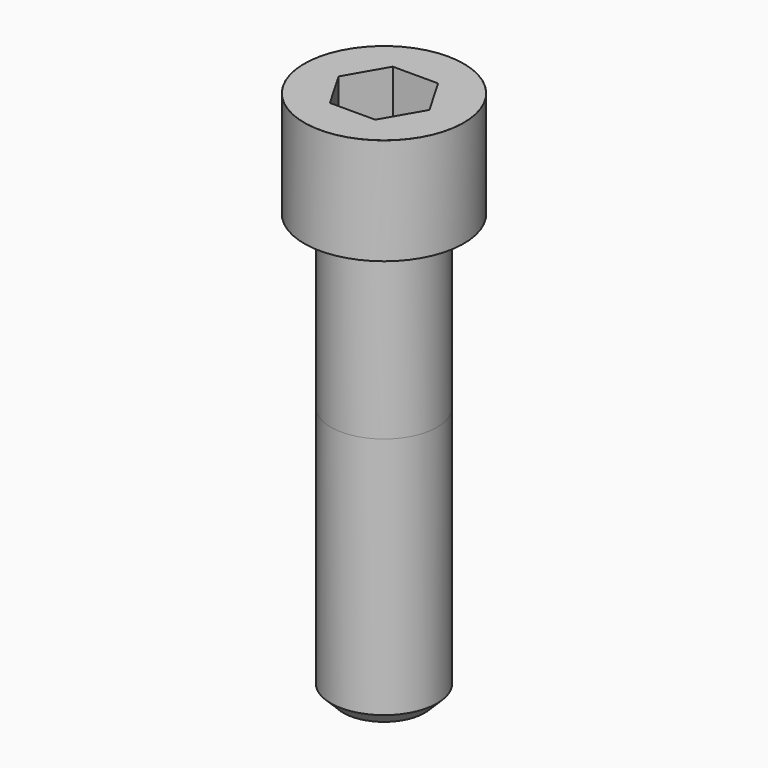
from build123d import *

# Parameters (mm, degrees)
POCKET_DEPTH = 22.15


with BuildPart() as part:
    # Sketch → Revolve (revolve)
    with BuildSketch(Plane.YZ):
        with BuildLine():
            Line((14.999, 0), (22.5, 0))
            Line((22.5, 0), (22.5, 29.97229))
            ThreePointArc((22.5, 29.97229), (22.491884, 29.991884), (22.47229, 30))
            Line((22.47229, 30), (0, 30))
            Line((0, -120), (0, 30))
            Line((11.5, -120), (0, -120))
            Line((15, -116.5), (11.5, -120))
            Line((15, -48), (15, -116.5))
            Line((14.999, 0), (15, -48))
        make_face()
    revolve(axis=Axis((0, 0, 0), (0, 0, 1)))

    # Sketch001 → Pocket (cut)
    with BuildSketch(Plane.XY.offset(30)):
        Polygon((12.788308, 0), (6.394154, 11.075), (-6.394154, 11.075), (-12.788308, 0), (-6.394154, -11.075), (6.394154, -11.075), align=None)
    extrude(amount=-POCKET_DEPTH, mode=Mode.SUBTRACT)


solid = part.part
